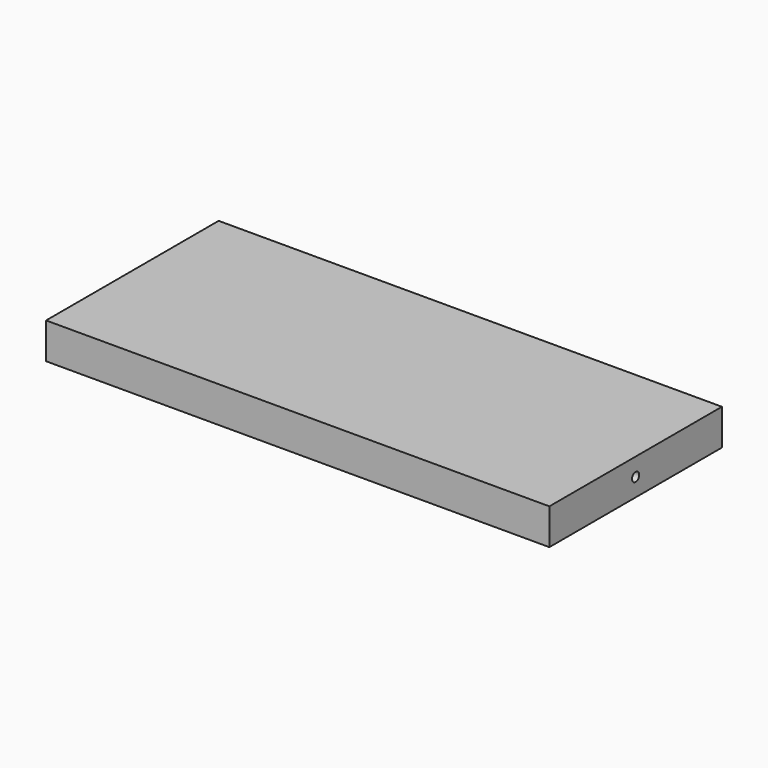
from build123d import *

# Parameters (mm, degrees)
F0_W     = 140
F0_H     = 60
F1_DEPTH = 5
F2_R     = 1.25
F3_DEPTH = 70


with BuildPart() as f1:
    # F0 (on Top) → F1 (new body, symmetric)
    with BuildSketch(Plane.XY):
        Rectangle(F0_W, F0_H)
    extrude(amount=F1_DEPTH, both=True)

    # F2 (on face) → F3 (cut)
    with BuildSketch(Plane.YZ.offset(70)):
        Circle(F2_R)
    extrude(amount=-F3_DEPTH, mode=Mode.SUBTRACT)


solid = f1.part
